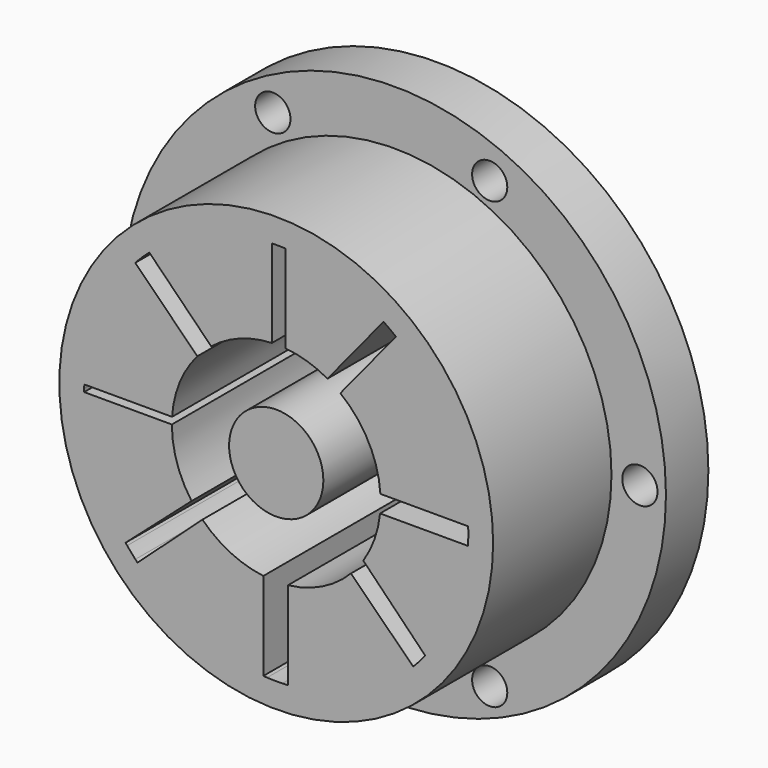
from build123d import *

# Parameters (mm, degrees)
F0_R     = 130
F0_R_2   = 8.4320247837
F0_R_3   = 8.4604664224
F0_R_4   = 103.9
F1_DEPTH = 25.4
F0_R_5   = 22.575
F2_DEPTH = 96.266
F0_R_6   = 100


with BuildPart() as f1:
    # F0 (on Front) → F1 (new body)
    with BuildSketch(Plane.XZ):
        Circle(F0_R)
        with Locations((-58.3318956196, -103.0474081635)):
            Circle(F0_R_2, mode=Mode.SUBTRACT)
        with Locations((45.5560311675, -108.1225928525)):
            Circle(F0_R_2, mode=Mode.SUBTRACT)
        with Locations((-117.840513587, 0)):
            Circle(F0_R_3, mode=Mode.SUBTRACT)
        with Locations((-58.3318956196, 100.035185645)):
            Circle(F0_R_3, mode=Mode.SUBTRACT)
        Circle(F0_R_4, mode=Mode.SUBTRACT)
        with Locations((117.5043061376, 0)):
            Circle(F0_R_3, mode=Mode.SUBTRACT)
        with Locations((45.5560311675, 105.0646528602)):
            Circle(F0_R_2, mode=Mode.SUBTRACT)
    extrude(amount=F1_DEPTH)


with BuildPart() as f2:
    # F0 (on Front) → F2 (new body)
    with BuildSketch(Plane.XZ):
        Circle(F0_R_5)
    extrude(amount=F2_DEPTH)


with BuildPart() as f2b:
    # F0 (on Front) → F2, piece 2 (new body)
    with BuildSketch(Plane.XZ):
        Circle(F0_R_4)
        Circle(F0_R_6, mode=Mode.SUBTRACT)
        Circle(F0_R_6)
        with BuildLine():
            ThreePointArc((91.943598503, 3.2209772296), (91.985898545, 1.610735503), (92, 0))
            ThreePointArc((92, 0), (91.9945302976, -1.0031925668), (91.9781218407, -2.0062658473))
            ThreePointArc((91.9781218407, -2.0062658473), (91.931784088, -3.5421849738), (91.8598002052, -5.07711594))
            ThreePointArc((91.8598002052, -5.07711594), (85.8110621158, -33.1732063352), (71.3882681475, -58.0320184976))
            ThreePointArc((71.3882681475, -58.0320184976), (70.398114687, -59.2292617591), (69.3878848277, -60.4096137973))
            ThreePointArc((69.3878848277, -60.4096137973), (68.4920226657, -61.4234713376), (67.5813480023, -62.4240450643))
            ThreePointArc((67.5813480023, -62.4240450643), (66.6023552591, -63.4675214101), (65.6072527589, -64.4956462517))
            ThreePointArc((65.6072527589, -64.4956462517), (38.1579577102, -83.7136205368), (5.6468078972, -91.8265406109))
            ThreePointArc((5.6468078972, -91.8265406109), (4.3070182777, -91.8991272731), (2.9663125492, -91.9521668579))
            ThreePointArc((2.9663125492, -91.9521668579), (-0.6992703547, -91.9973424669), (-4.3637430068, -91.8964512208))
            ThreePointArc((-4.3637430068, -91.8964512208), (-5.2725828132, -91.848788073), (-6.1809066605, -91.7921368792))
            ThreePointArc((-6.1809066605, -91.7921368792), (-38.9531507817, -83.3465778792), (-66.4542592722, -63.6225700879))
            ThreePointArc((-66.4542592722, -63.6225700879), (-66.9668049503, -63.0828584859), (-67.4749674699, -62.5390179402))
            ThreePointArc((-67.4749674699, -62.5390179402), (-69.4682529705, -60.3171769003), (-71.3884116058, -58.0318420214))
            ThreePointArc((-71.3884116058, -58.0318420214), (-71.77720849, -57.5502592643), (-72.1627567009, -57.066071753))
            ThreePointArc((-72.1627567009, -57.066071753), (-86.6327457977, -30.963968666), (-91.9860266314, -1.6034040539))
            ThreePointArc((-91.9860266314, -1.6034040539), (-91.9965065915, -0.8017324702), (-92, 0))
            ThreePointArc((-92, 0), (-91.9972330765, 0.7135168314), (-91.9889324724, 1.4269907443))
            ThreePointArc((-91.9889324724, 1.4269907443), (-91.9875218425, 1.5151980957), (-91.9860266314, 1.6034040539))
            ThreePointArc((-91.9860266314, 1.6034040539), (-91.9678157166, 2.4332842667), (-91.9421179347, 3.2629663919))
            ThreePointArc((-91.9421179347, 3.2629663919), (-85.0579145918, 35.0592522066), (-67.5374918971, 62.4714910039))
            ThreePointArc((-67.5374918971, 62.4714910039), (-66.4569448496, 63.6197648632), (-65.3568775289, 64.7493518089))
            ThreePointArc((-65.3568775289, 64.7493518089), (-64.2622258258, 65.8359045804), (-63.1495128287, 66.9039537658))
            ThreePointArc((-63.1495128287, 66.9039537658), (-61.988450086, 67.9811154361), (-60.8090167909, 69.0381306013))
            ThreePointArc((-60.8090167909, 69.0381306013), (-33.4640730256, 85.6980502494), (-2.0654104118, 91.9768127292))
            ThreePointArc((-2.0654104118, 91.9768127292), (-1.0327702817, 91.9942029997), (0, 92))
            ThreePointArc((0, 92), (1.0128581982, 91.9944243869), (2.0255936289, 91.9776982233))
            ThreePointArc((2.0255936289, 91.9776982233), (3.1729894719, 91.9452670767), (4.3198913837, 91.8985230482))
            ThreePointArc((4.3198913837, 91.8985230482), (28.9299356948, 87.3330339602), (51.3986111458, 76.3032291078))
            ThreePointArc((51.3986111458, 76.3032291078), (52.6000832749, 75.4800055609), (53.7883728669, 74.6378653522))
            ThreePointArc((53.7883728669, 74.6378653522), (54.6697457556, 73.9947221024), (55.5434294104, 73.3411715841))
            ThreePointArc((55.5434294104, 73.3411715841), (56.4507085305, 72.6451478518), (57.3492665734, 71.9379011613))
            ThreePointArc((57.3492665734, 71.9379011613), (82.1741674697, 41.3691455152), (91.943598503, 3.2209772296))
        make_face(mode=Mode.SUBTRACT)
        with BuildLine():
            ThreePointArc((30.7168600193, 39.4521800482), (44.190374144, 23.3925379771), (49.8961451987, 3.2209772296))
            Line((49.8961451987, 3.2209772296), (91.943598503, 3.2209772296))
            ThreePointArc((91.943598503, 3.2209772296), (82.1741674697, 41.3691455152), (57.3492665734, 71.9379011613))
            Line((57.3492665734, 71.9379011613), (30.7168600193, 39.4521800482))
        make_face()
        with BuildLine():
            Line((65.6072527589, -64.4956462517), (35.7854787982, -34.9199013055))
            ThreePointArc((35.7854787982, -34.9199013055), (21.9914654476, -44.9040693865), (5.6468078972, -49.6801123245))
            Line((5.6468078972, -49.6801123245), (5.6468078972, -91.8265406109))
            ThreePointArc((5.6468078972, -91.8265406109), (38.1579577102, -83.7136205368), (65.6072527589, -64.4956462517))
        make_face()
        with BuildLine():
            Line((-6.1809066605, -91.7921368792), (-6.1809066605, -49.6164931535))
            ThreePointArc((-6.1809066605, -49.6164931535), (-21.9605262736, -44.9192084279), (-35.3590900652, -35.3515876554))
            Line((-35.3590900652, -35.3515876554), (-66.4542592722, -63.6225700879))
            ThreePointArc((-66.4542592722, -63.6225700879), (-38.9531507817, -83.3465778792), (-6.1809066605, -91.7921368792))
        make_face()
        with BuildLine():
            ThreePointArc((-49.8934169037, 3.2629663919), (-46.252497704, 18.9922735907), (-37.7889712211, 32.7413141772))
            Line((-37.7889712211, 32.7413141772), (-67.5374918971, 62.4714910039))
            ThreePointArc((-67.5374918971, 62.4714910039), (-85.0579145918, 35.0592522066), (-91.9421179347, 3.2629663919))
            Line((-91.9421179347, 3.2629663919), (-49.8934169037, 3.2629663919))
        make_face()
        with BuildLine():
            ThreePointArc((-31.1759395801, 39.090418152), (-17.4862586138, 46.8426169176), (-2.0654104118, 49.9573225847))
            Line((-2.0654104118, 49.9573225847), (-2.0654104118, 91.9768127292))
            ThreePointArc((-2.0654104118, 91.9768127292), (-33.4640730256, 85.6980502494), (-60.8090167909, 69.0381306013))
            Line((-60.8090167909, 69.0381306013), (-31.1759395801, 39.090418152))
        make_face()
        with BuildLine():
            Line((-72.1627567009, -57.066071753), (-40.5672940167, -29.2283194208))
            ThreePointArc((-40.5672940167, -29.2283194208), (-47.5834251648, -15.3563553483), (-50, 0))
            Line((-50, 0), (-92, 0))
            ThreePointArc((-92, 0), (-91.9965065915, -0.8017324702), (-91.9860266314, -1.6034040539))
            ThreePointArc((-91.9860266314, -1.6034040539), (-86.6327457977, -30.963968666), (-72.1627567009, -57.066071753))
        make_face()
        with BuildLine():
            Line((91.8598002052, -5.07711594), (49.7415610303, -5.07711594))
            ThreePointArc((49.7415610303, -5.07711594), (47.0876847242, -16.8151701541), (41.7060192908, -27.5791217213))
            Line((41.7060192908, -27.5791217213), (71.3882681475, -58.0320184976))
            ThreePointArc((71.3882681475, -58.0320184976), (85.8110621158, -33.1732063352), (91.8598002052, -5.07711594))
        make_face()
        with BuildLine():
            ThreePointArc((4.3198913837, 49.8130358283), (14.7711602976, 47.7683244783), (24.552351085, 43.5566534091))
            Line((24.552351085, 43.5566534091), (51.3986111458, 76.3032291078))
            ThreePointArc((51.3986111458, 76.3032291078), (28.9299356948, 87.3330339602), (4.3198913837, 91.8985230482))
            Line((4.3198913837, 91.8985230482), (4.3198913837, 49.8130358283))
        make_face()
    extrude(amount=F2_DEPTH)


solid = Compound([f1.part, f2.part, f2b.part])
